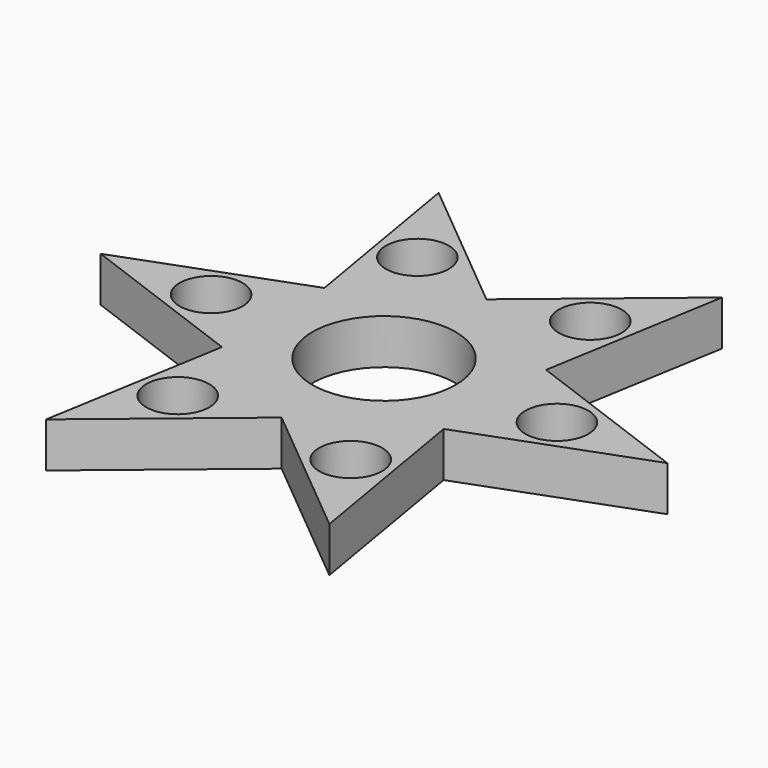
from build123d import *

# Parameters (mm, degrees)
F0_R     = 4.9
F0_R_2   = 11.15
F1_DEPTH = 7


with BuildPart() as f1:
    # F0 (on Top) → F1 (new body)
    with BuildSketch(Plane.XY):
        Polygon((-7.7780097821, 13.4719081244), (0, 19.9143218109), (-22.0348406583, 38.1654635569), (-17.2463085873, 9.9571609054), align=None)
        with Locations((-13.4494397789, 23.2951130304)):
            Circle(F0_R, mode=Mode.SUBTRACT)
        with BuildLine():
            ThreePointArc((-6.4179147594, 13.9767918736), (0, 15.3798680403), (6.4179147594, 13.9767918736))
            Line((6.4179147594, 13.9767918736), (7.7780097821, 13.4719081244))
            Line((7.7780097821, 13.4719081244), (0, 19.9143218109))
            Line((0, 19.9143218109), (-7.7780097821, 13.4719081244))
            Line((-7.7780097821, 13.4719081244), (-6.4179147594, 13.9767918736))
        make_face()
        Polygon((0, 19.9143218109), (7.7780097821, 13.4719081244), (17.2463085873, 9.9571609054), (22.0348406583, 38.1654635569), align=None)
        with Locations((13.4494397789, 23.2951130304)):
            Circle(F0_R, mode=Mode.SUBTRACT)
        with BuildLine():
            ThreePointArc((8.8952994462, 12.5464731577), (13.3193564297, 7.6899340201), (15.3132142056, 1.4303187159))
            Line((15.3132142056, 1.4303187159), (15.5560195643, 0))
            Line((15.5560195643, 0), (17.2463085873, 9.9571609054))
            Line((17.2463085873, 9.9571609054), (7.7780097821, 13.4719081244))
            Line((7.7780097821, 13.4719081244), (8.8952994462, 12.5464731577))
        make_face()
        Polygon((17.2463085873, 9.9571609054), (15.5560195643, 0), (17.2463085873, -9.9571609054), (44.0696813166, 0), align=None)
        with Locations((26.8988795578, 0)):
            Circle(F0_R, mode=Mode.SUBTRACT)
        with BuildLine():
            ThreePointArc((15.3132142056, -1.4303187159), (15.3631955447, -0.7159354654), (15.3798680403, 0))
            ThreePointArc((15.3798680403, 0), (15.3631955447, 0.7159354654), (15.3132142056, 1.4303187159))
            ThreePointArc((15.3132142056, 1.4303187159), (13.3193564297, 7.6899340201), (8.8952994462, 12.5464731577))
            ThreePointArc((8.8952994462, 12.5464731577), (7.6899340201, 13.3193564297), (6.4179147594, 13.9767918736))
            ThreePointArc((6.4179147594, 13.9767918736), (0, 15.3798680403), (-6.4179147594, 13.9767918736))
            ThreePointArc((-6.4179147594, 13.9767918736), (-7.6899340201, 13.3193564297), (-8.8952994462, 12.5464731577))
            ThreePointArc((-8.8952994462, 12.5464731577), (-13.3193564297, 7.6899340201), (-15.3132142056, 1.4303187159))
            ThreePointArc((-15.3132142056, 1.4303187159), (-15.3798680403, 0), (-15.3132142056, -1.4303187159))
            ThreePointArc((-15.3132142056, -1.4303187159), (-13.3193564297, -7.6899340201), (-8.8952994462, -12.5464731577))
            ThreePointArc((-8.8952994462, -12.5464731577), (-7.6899340201, -13.3193564297), (-6.4179147594, -13.9767918736))
            ThreePointArc((-6.4179147594, -13.9767918736), (0, -15.3798680403), (6.4179147594, -13.9767918736))
            ThreePointArc((6.4179147594, -13.9767918736), (7.6899340201, -13.3193564297), (8.8952994462, -12.5464731577))
            ThreePointArc((8.8952994462, -12.5464731577), (13.3193564297, -7.6899340201), (15.3132142056, -1.4303187159))
        make_face()
        Circle(F0_R_2, mode=Mode.SUBTRACT)
        with BuildLine():
            Line((15.5560195643, 0), (15.3132142056, -1.4303187159))
            ThreePointArc((15.3132142056, -1.4303187159), (13.3193564297, -7.6899340201), (8.8952994462, -12.5464731577))
            Line((8.8952994462, -12.5464731577), (7.7780097821, -13.4719081244))
            Line((7.7780097821, -13.4719081244), (17.2463085873, -9.9571609054))
            Line((17.2463085873, -9.9571609054), (15.5560195643, 0))
        make_face()
        Polygon((22.0348406583, -38.1654635569), (17.2463085873, -9.9571609054), (7.7780097821, -13.4719081244), (0, -19.9143218109), align=None)
        with Locations((13.4494397789, -23.2951130304)):
            Circle(F0_R, mode=Mode.SUBTRACT)
        with BuildLine():
            Line((7.7780097821, -13.4719081244), (6.4179147594, -13.9767918736))
            ThreePointArc((6.4179147594, -13.9767918736), (0, -15.3798680403), (-6.4179147594, -13.9767918736))
            Line((-6.4179147594, -13.9767918736), (-7.7780097821, -13.4719081244))
            Line((-7.7780097821, -13.4719081244), (0, -19.9143218109))
            Line((0, -19.9143218109), (7.7780097821, -13.4719081244))
        make_face()
        Polygon((-22.0348406583, -38.1654635569), (0, -19.9143218109), (-7.7780097821, -13.4719081244), (-17.2463085873, -9.9571609054), align=None)
        with Locations((-13.4494397789, -23.2951130304)):
            Circle(F0_R, mode=Mode.SUBTRACT)
        with BuildLine():
            Line((-7.7780097821, -13.4719081244), (-8.8952994462, -12.5464731577))
            ThreePointArc((-8.8952994462, -12.5464731577), (-13.3193564297, -7.6899340201), (-15.3132142056, -1.4303187159))
            Line((-15.3132142056, -1.4303187159), (-15.5560195643, 0))
            Line((-15.5560195643, 0), (-17.2463085873, -9.9571609054))
            Line((-17.2463085873, -9.9571609054), (-7.7780097821, -13.4719081244))
        make_face()
        Polygon((-15.5560195643, 0), (-17.2463085873, 9.9571609054), (-44.0696813166, 0), (-17.2463085873, -9.9571609054), align=None)
        with Locations((-26.8988795578, 0)):
            Circle(F0_R, mode=Mode.SUBTRACT)
        with BuildLine():
            ThreePointArc((-15.3132142056, 1.4303187159), (-13.3193564297, 7.6899340201), (-8.8952994462, 12.5464731577))
            Line((-8.8952994462, 12.5464731577), (-7.7780097821, 13.4719081244))
            Line((-7.7780097821, 13.4719081244), (-17.2463085873, 9.9571609054))
            Line((-17.2463085873, 9.9571609054), (-15.5560195643, 0))
            Line((-15.5560195643, 0), (-15.3132142056, 1.4303187159))
        make_face()
        with BuildLine():
            ThreePointArc((6.4179147594, 13.9767918736), (7.6899340201, 13.3193564297), (8.8952994462, 12.5464731577))
            Line((8.8952994462, 12.5464731577), (7.7780097821, 13.4719081244))
            Line((7.7780097821, 13.4719081244), (6.4179147594, 13.9767918736))
        make_face()
        with BuildLine():
            ThreePointArc((-8.8952994462, 12.5464731577), (-7.6899340201, 13.3193564297), (-6.4179147594, 13.9767918736))
            Line((-6.4179147594, 13.9767918736), (-7.7780097821, 13.4719081244))
            Line((-7.7780097821, 13.4719081244), (-8.8952994462, 12.5464731577))
        make_face()
        with BuildLine():
            ThreePointArc((-15.3132142056, -1.4303187159), (-15.3798680403, 0), (-15.3132142056, 1.4303187159))
            Line((-15.3132142056, 1.4303187159), (-15.5560195643, 0))
            Line((-15.5560195643, 0), (-15.3132142056, -1.4303187159))
        make_face()
        with BuildLine():
            Line((-7.7780097821, -13.4719081244), (-6.4179147594, -13.9767918736))
            ThreePointArc((-6.4179147594, -13.9767918736), (-7.6899340201, -13.3193564297), (-8.8952994462, -12.5464731577))
            Line((-8.8952994462, -12.5464731577), (-7.7780097821, -13.4719081244))
        make_face()
        with BuildLine():
            Line((7.7780097821, -13.4719081244), (8.8952994462, -12.5464731577))
            ThreePointArc((8.8952994462, -12.5464731577), (7.6899340201, -13.3193564297), (6.4179147594, -13.9767918736))
            Line((6.4179147594, -13.9767918736), (7.7780097821, -13.4719081244))
        make_face()
        with BuildLine():
            ThreePointArc((15.3132142056, 1.4303187159), (15.3631955447, 0.7159354654), (15.3798680403, 0))
            ThreePointArc((15.3798680403, 0), (15.3631955447, -0.7159354654), (15.3132142056, -1.4303187159))
            Line((15.3132142056, -1.4303187159), (15.5560195643, 0))
            Line((15.5560195643, 0), (15.3132142056, 1.4303187159))
        make_face()
    extrude(amount=F1_DEPTH)


solid = f1.part
